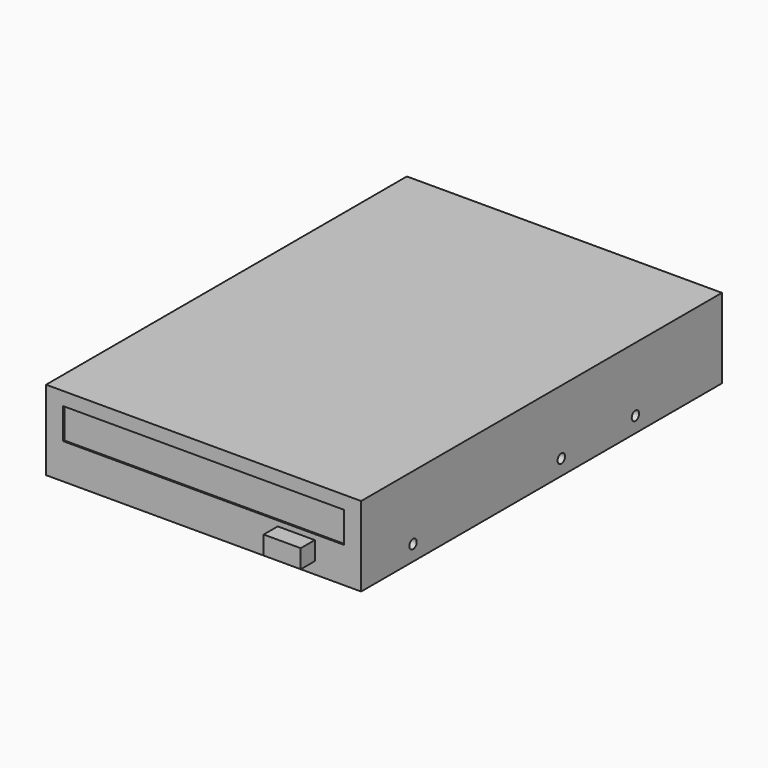
from build123d import *

# Parameters (mm, degrees)
SKETCH_W        = 102
SKETCH_H        = 146
PAD_DEPTH       = 12.9
SKETCH010_R     = 1.5
POCKET_DEPTH    = 102
SKETCH012_R     = 1.5
POCKET005_DEPTH = 5
SKETCH003_W     = 12
SKETCH003_H     = 6
PAD004_DEPTH    = 5.7
SKETCH004_W     = 91
SKETCH004_H     = 10
POCKET007_DEPTH = 0.5


with BuildPart() as part:
    # Sketch → Pad (new body, symmetric)
    with BuildSketch(Plane.XY):
        Rectangle(SKETCH_W, SKETCH_H)
    extrude(amount=PAD_DEPTH, both=True)

    # Sketch010 (on Face3 of Pad) → Pocket (cut)
    with BuildSketch(Plane.YZ.offset(51)):
        with Locations((-52, -7.9)):
            Circle(SKETCH010_R)
        with Locations((8, -7.9)):
            Circle(SKETCH010_R)
        with Locations((38, -7.9)):
            Circle(SKETCH010_R)
    extrude(amount=-POCKET_DEPTH, mode=Mode.SUBTRACT)

    # Sketch012 (on Face3 of Pocket) → Pocket005 (cut)
    with BuildSketch(Plane(origin=(0, 0, -12.9), x_dir=(1, 0, 0), z_dir=(0, 0, -1))):
        with Locations((-47, 42)):
            Circle(SKETCH012_R)
        with Locations((47, 42)):
            Circle(SKETCH012_R)
        with Locations((-47, -28)):
            Circle(SKETCH012_R)
        with Locations((47, -28)):
            Circle(SKETCH012_R)
    extrude(amount=-POCKET005_DEPTH, mode=Mode.SUBTRACT)

    # Sketch003 (on Face2 of Pad) → Pad004 (join)
    with BuildSketch(Plane.XZ.offset(73)):
        with Locations((30, -6.1)):
            Rectangle(SKETCH003_W, SKETCH003_H)
    extrude(amount=PAD004_DEPTH)

    # Sketch004 (on Face2 of Pad) → Pocket007 (cut)
    with BuildSketch(Plane.XZ.offset(73)):
        with Locations((0, 3.6)):
            Rectangle(SKETCH004_W, SKETCH004_H)
    extrude(amount=-POCKET007_DEPTH, mode=Mode.SUBTRACT)


solid = part.part
